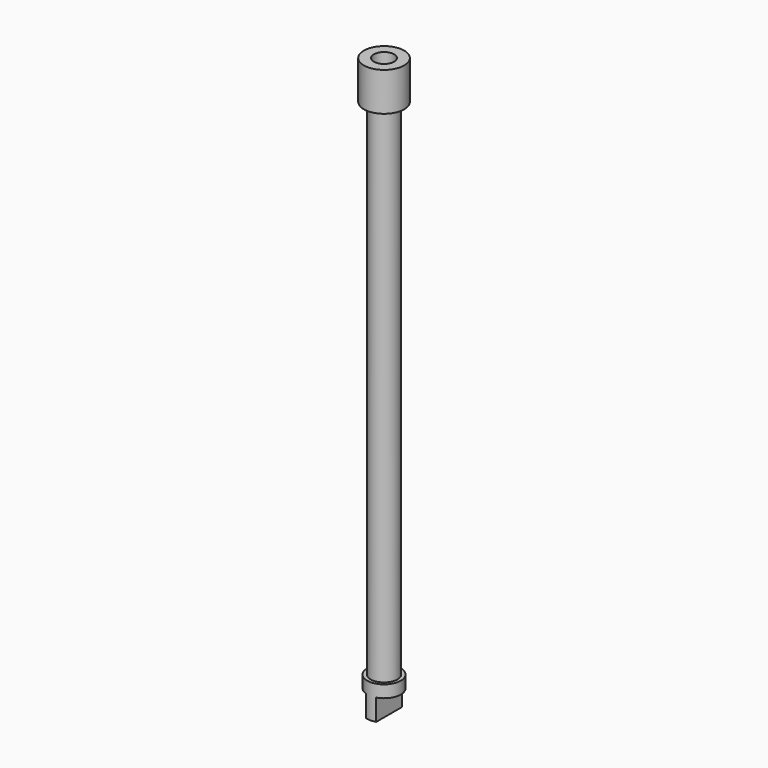
from build123d import *

# Parameters (mm, degrees)
F3_DEPTH = 12.75
F4_R     = 6
F5_DEPTH = 15


with BuildPart() as f1:
    # F0 (on Front) → F1 (revolve)
    with BuildSketch(Plane.XZ):
        Polygon((12, 286.387794), (0, 286.387794), (0, -56.612206), (10, -56.612206), (10, -36.612206), (8, -36.612206), (8, 263.387794), (12, 263.387794), align=None)
    revolve(axis=Axis((0, 0, 114.887794), (0, 0, 1)))

    # F2 (on face) → F3 (cut)
    with BuildSketch(Plane(origin=(0, 0, -56.612206), x_dir=(1, 0, 0), z_dir=(0, 0, -1))):
        with BuildLine():
            Line((3, 9.539392), (3, 0))
            Line((3, 0), (3, -9.539392))
            ThreePointArc((3, -9.539392), (8.062258, -5.91608), (10, 0))
            ThreePointArc((10, 0), (8.062258, 5.91608), (3, 9.539392))
        make_face()
        with BuildLine():
            Line((-3, -9.539392), (-3, 0))
            Line((-3, 0), (-3, 9.539392))
            ThreePointArc((-3, 9.539392), (-10, 0), (-3, -9.539392))
        make_face()
    extrude(amount=-F3_DEPTH, mode=Mode.SUBTRACT)

    # F4 (on face) → F5 (cut)
    with BuildSketch(Plane.XY.offset(286.387794)):
        Circle(F4_R)
    extrude(amount=-F5_DEPTH, mode=Mode.SUBTRACT)


solid = f1.part
